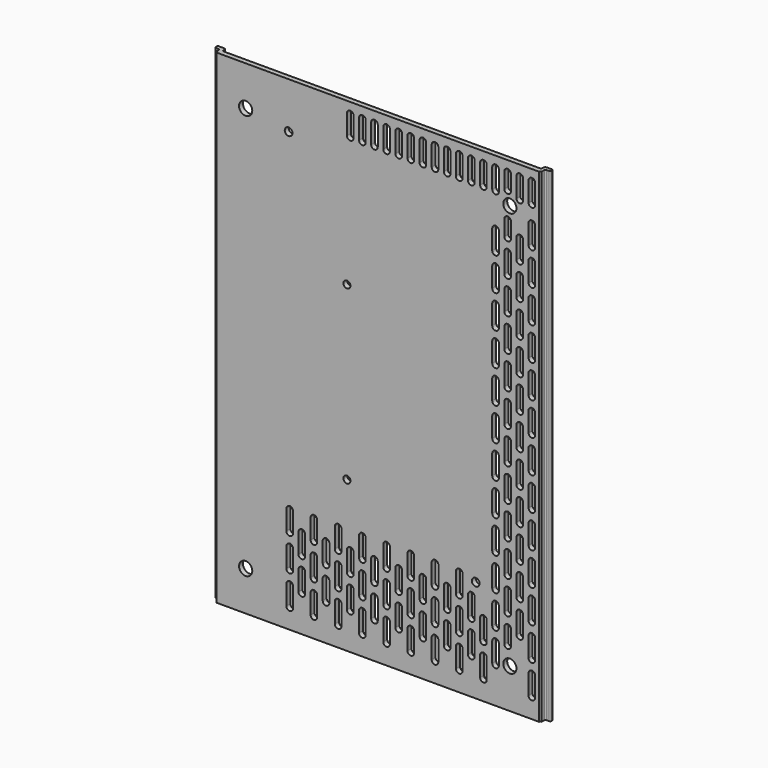
from build123d import *

# Parameters (mm, degrees)
PAD002_DEPTH    = 110
SKETCH005_R     = 1.75
SKETCH005_R_2   = 1.6
POCKET002_DEPTH = 2.251
SKETCH007_R     = 3
POCKET003_DEPTH = 5
POCKET004_DEPTH = 5
POCKET005_DEPTH = 5
POCKET006_DEPTH = 5


with BuildPart() as part:
    # Sketch002 → Pad002 (new body, symmetric)
    with BuildSketch(Plane.XY):
        with BuildLine():
            Line((-72.340626, 3.292676), (-72.340626, 2.75))
            ThreePointArc((-72.340626, 2.75), (-72.194179, 2.396447), (-71.840626, 2.25))
            Line((-71.840626, 2.25), (71.960626, 2.25))
            ThreePointArc((71.960626, 2.25), (72.314179, 2.396447), (72.460626, 2.75))
            Line((72.460626, 2.75), (72.460626, 3.292676))
            ThreePointArc((73.460626, 4.292676), (72.753519, 3.999783), (72.460626, 3.292676))
            Line((73.460626, 4.292676), (75.76208, 4.292676))
            ThreePointArc((76.26208, 3.792676), (76.115633, 4.14623), (75.76208, 4.292676))
            Line((76.26208, 3.792676), (76.26208, 3.150519))
            ThreePointArc((75.76208, 2.650519), (76.115633, 2.796966), (76.26208, 3.150519))
            Line((75.76208, 2.650519), (74.460626, 2.650519))
            ThreePointArc((74.460626, 2.650519), (74.107073, 2.504072), (73.960626, 2.150519))
            Line((73.960626, 2.150519), (73.960626, 0.635))
            ThreePointArc((73.960626, 0.635), (73.511613, 0.449013), (73.325626, 0))
            Line((73.325626, 0), (-73.205626, 0))
            ThreePointArc((-73.205626, 0), (-73.391613, 0.449013), (-73.840626, 0.635))
            Line((-73.840626, 0.635), (-73.840626, 2.150519))
            ThreePointArc((-73.840626, 2.150519), (-73.987073, 2.504072), (-74.340626, 2.650519))
            Line((-74.340626, 2.650519), (-75.64208, 2.650519))
            ThreePointArc((-76.14208, 3.150519), (-75.995633, 2.796966), (-75.64208, 2.650519))
            Line((-76.14208, 3.150519), (-76.14208, 3.792676))
            ThreePointArc((-75.64208, 4.292676), (-75.995633, 4.14623), (-76.14208, 3.792676))
            Line((-75.64208, 4.292676), (-73.340626, 4.292676))
            ThreePointArc((-72.340626, 3.292676), (-72.633519, 3.999783), (-73.340626, 4.292676))
        make_face()
    extrude(amount=PAD002_DEPTH, both=True)

    # Sketch005 (on Face3 of Pad002) → Pocket002 (cut, through all)
    with BuildSketch(Plane(origin=(0, 2.25, 0), x_dir=(-1, 0, 0), z_dir=(0, 1, 0))):
        with Locations((-44.5, -63.5)):
            Circle(SKETCH005_R)
        with Locations((40.5, 89)):
            Circle(SKETCH005_R)
        with Locations((14, 36.5)):
            Circle(SKETCH005_R_2)
        with Locations((14, -41.5)):
            Circle(SKETCH005_R_2)
    extrude(amount=-POCKET002_DEPTH, mode=Mode.SUBTRACT)

    # Sketch007 (on Face7 of Pocket002) → Pocket003 (cut)
    with BuildSketch(Plane(origin=(0, 2.25, 0), x_dir=(-1, 0, 0), z_dir=(0, 1, 0))):
        with Locations((-60, 92)):
            Circle(SKETCH007_R)
        with Locations((60, 92)):
            Circle(SKETCH007_R)
        with Locations((-60, -92)):
            Circle(SKETCH007_R)
        with Locations((60, -92)):
            Circle(SKETCH007_R)
    extrude(amount=-POCKET003_DEPTH, mode=Mode.SUBTRACT)

    # Sketch008 (on Face7 of Pocket003) → Pocket004 (cut)
    with BuildSketch(Plane(origin=(0, 2.25, 0), x_dir=(-1, 0, 0), z_dir=(0, 1, 0))):
        with BuildLine():
            ThreePointArc((-68.5, 105), (-70, 106.5), (-71.5, 105))
            Line((-71.5, 105), (-71.5, 96))
            ThreePointArc((-71.5, 96), (-70, 94.5), (-68.5, 96))
            Line((-68.5, 105), (-68.5, 96))
        make_face()
        with BuildLine():
            ThreePointArc((-63, 105), (-64.5, 106.5), (-66, 105))
            Line((-66, 105), (-66, 96))
            ThreePointArc((-66, 96), (-64.5, 94.5), (-63, 96))
            Line((-63, 105), (-63, 96))
        make_face()
        with BuildLine():
            ThreePointArc((-57.5, 105), (-59, 106.5), (-60.5, 105))
            Line((-60.5, 105), (-60.5, 98))
            ThreePointArc((-60.5, 98), (-59, 96.5), (-57.5, 98))
            Line((-57.5, 105), (-57.5, 98))
        make_face()
        with BuildLine():
            ThreePointArc((-52, 105), (-53.5, 106.5), (-55, 105))
            Line((-55, 105), (-55, 96))
            ThreePointArc((-55, 96), (-53.5, 94.5), (-52, 96))
            Line((-52, 105), (-52, 96))
        make_face()
        with BuildLine():
            ThreePointArc((-46.5, 105), (-48, 106.5), (-49.5, 105))
            Line((-49.5, 105), (-49.5, 96))
            ThreePointArc((-49.5, 96), (-48, 94.5), (-46.5, 96))
            Line((-46.5, 105), (-46.5, 96))
        make_face()
        with BuildLine():
            ThreePointArc((-41, 105), (-42.5, 106.5), (-44, 105))
            Line((-44, 105), (-44, 96))
            ThreePointArc((-44, 96), (-42.5, 94.5), (-41, 96))
            Line((-41, 105), (-41, 96))
        make_face()
        with BuildLine():
            ThreePointArc((-35.5, 105), (-37, 106.5), (-38.5, 105))
            Line((-38.5, 105), (-38.5, 96))
            ThreePointArc((-38.5, 96), (-37, 94.5), (-35.5, 96))
            Line((-35.5, 105), (-35.5, 96))
        make_face()
        with BuildLine():
            ThreePointArc((-30, 105), (-31.5, 106.5), (-33, 105))
            Line((-33, 105), (-33, 96))
            ThreePointArc((-33, 96), (-31.5, 94.5), (-30, 96))
            Line((-30, 105), (-30, 96))
        make_face()
        with BuildLine():
            ThreePointArc((-24.5, 105), (-26, 106.5), (-27.5, 105))
            Line((-27.5, 105), (-27.5, 96))
            ThreePointArc((-27.5, 96), (-26, 94.5), (-24.5, 96))
            Line((-24.5, 105), (-24.5, 96))
        make_face()
        with BuildLine():
            ThreePointArc((-19, 105), (-20.5, 106.5), (-22, 105))
            Line((-22, 105), (-22, 96))
            ThreePointArc((-22, 96), (-20.5, 94.5), (-19, 96))
            Line((-19, 105), (-19, 96))
        make_face()
        with BuildLine():
            ThreePointArc((-13.5, 105), (-15, 106.5), (-16.5, 105))
            Line((-16.5, 105), (-16.5, 96))
            ThreePointArc((-16.5, 96), (-15, 94.5), (-13.5, 96))
            Line((-13.5, 105), (-13.5, 96))
        make_face()
        with BuildLine():
            ThreePointArc((-8, 105), (-9.5, 106.5), (-11, 105))
            Line((-11, 105), (-11, 96))
            ThreePointArc((-11, 96), (-9.5, 94.5), (-8, 96))
            Line((-8, 105), (-8, 96))
        make_face()
        with BuildLine():
            ThreePointArc((-2.5, 105), (-4, 106.5), (-5.5, 105))
            Line((-5.5, 105), (-5.5, 96))
            ThreePointArc((-5.5, 96), (-4, 94.5), (-2.5, 96))
            Line((-2.5, 105), (-2.5, 96))
        make_face()
        with BuildLine():
            ThreePointArc((3, 105), (1.5, 106.5), (0, 105))
            Line((0, 105), (0, 96))
            ThreePointArc((0, 96), (1.5, 94.5), (3, 96))
            Line((3, 105), (3, 96))
        make_face()
        with BuildLine():
            ThreePointArc((8.5, 105), (7, 106.5), (5.5, 105))
            Line((5.5, 105), (5.5, 96))
            ThreePointArc((5.5, 96), (7, 94.5), (8.5, 96))
            Line((8.5, 105), (8.5, 96))
        make_face()
        with BuildLine():
            ThreePointArc((14, 105), (12.5, 106.5), (11, 105))
            Line((11, 105), (11, 96))
            ThreePointArc((11, 96), (12.5, 94.5), (14, 96))
            Line((14, 105), (14, 96))
        make_face()
    extrude(amount=-POCKET004_DEPTH, mode=Mode.SUBTRACT)

    # Sketch009 (on Face7 of Pocket004) → Pocket005 (cut)
    with BuildSketch(Plane(origin=(0, 2.25, 0), x_dir=(-1, 0, 0), z_dir=(0, 1, 0))):
        with BuildLine():
            ThreePointArc((-68.5, 73), (-70, 74.5), (-71.5, 73))
            Line((-71.5, 73), (-71.5, 64))
            ThreePointArc((-71.5, 64), (-70, 62.5), (-68.5, 64))
            Line((-68.5, 73), (-68.5, 64))
        make_face()
        with BuildLine():
            ThreePointArc((-63, 80.5), (-64.5, 82), (-66, 80.5))
            Line((-66, 80.5), (-66, 71.5))
            ThreePointArc((-66, 71.5), (-64.5, 70), (-63, 71.5))
            Line((-63, 80.5), (-63, 71.5))
        make_face()
        with BuildLine():
            ThreePointArc((-57.5, 73), (-59, 74.5), (-60.5, 73))
            Line((-60.5, 73), (-60.5, 64))
            ThreePointArc((-60.5, 64), (-59, 62.5), (-57.5, 64))
            Line((-57.5, 73), (-57.5, 64))
        make_face()
        with BuildLine():
            ThreePointArc((-52, 80.5), (-53.5, 82), (-55, 80.5))
            Line((-55, 80.5), (-55, 71.5))
            ThreePointArc((-55, 71.5), (-53.5, 70), (-52, 71.5))
            Line((-52, 80.5), (-52, 71.5))
        make_face()
        with BuildLine():
            ThreePointArc((-68.5, 58), (-70, 59.5), (-71.5, 58))
            Line((-71.5, 58), (-71.5, 49))
            ThreePointArc((-71.5, 49), (-70, 47.5), (-68.5, 49))
            Line((-68.5, 58), (-68.5, 49))
        make_face()
        with BuildLine():
            ThreePointArc((-63, 65.5), (-64.5, 67), (-66, 65.5))
            Line((-66, 65.5), (-66, 56.5))
            ThreePointArc((-66, 56.5), (-64.5, 55), (-63, 56.5))
            Line((-63, 65.5), (-63, 56.5))
        make_face()
        with BuildLine():
            ThreePointArc((-57.5, 58), (-59, 59.5), (-60.5, 58))
            Line((-60.5, 58), (-60.5, 49))
            ThreePointArc((-60.5, 49), (-59, 47.5), (-57.5, 49))
            Line((-57.5, 58), (-57.5, 49))
        make_face()
        with BuildLine():
            ThreePointArc((-52, 65.5), (-53.5, 67), (-55, 65.5))
            Line((-55, 65.5), (-55, 56.5))
            ThreePointArc((-55, 56.5), (-53.5, 55), (-52, 56.5))
            Line((-52, 65.5), (-52, 56.5))
        make_face()
        with BuildLine():
            ThreePointArc((-68.5, 43), (-70, 44.5), (-71.5, 43))
            Line((-71.5, 43), (-71.5, 34))
            ThreePointArc((-71.5, 34), (-70, 32.5), (-68.5, 34))
            Line((-68.5, 43), (-68.5, 34))
        make_face()
        with BuildLine():
            ThreePointArc((-63, 50.5), (-64.5, 52), (-66, 50.5))
            Line((-66, 50.5), (-66, 41.5))
            ThreePointArc((-66, 41.5), (-64.5, 40), (-63, 41.5))
            Line((-63, 50.5), (-63, 41.5))
        make_face()
        with BuildLine():
            ThreePointArc((-57.5, 43), (-59, 44.5), (-60.5, 43))
            Line((-60.5, 43), (-60.5, 34))
            ThreePointArc((-60.5, 34), (-59, 32.5), (-57.5, 34))
            Line((-57.5, 43), (-57.5, 34))
        make_face()
        with BuildLine():
            ThreePointArc((-52, 50.5), (-53.5, 52), (-55, 50.5))
            Line((-55, 50.5), (-55, 41.5))
            ThreePointArc((-55, 41.5), (-53.5, 40), (-52, 41.5))
            Line((-52, 50.5), (-52, 41.5))
        make_face()
        with BuildLine():
            ThreePointArc((-68.5, 28), (-70, 29.5), (-71.5, 28))
            Line((-71.5, 28), (-71.5, 19))
            ThreePointArc((-71.5, 19), (-70, 17.5), (-68.5, 19))
            Line((-68.5, 28), (-68.5, 19))
        make_face()
        with BuildLine():
            ThreePointArc((-63, 35.5), (-64.5, 37), (-66, 35.5))
            Line((-66, 35.5), (-66, 26.5))
            ThreePointArc((-66, 26.5), (-64.5, 25), (-63, 26.5))
            Line((-63, 35.5), (-63, 26.5))
        make_face()
        with BuildLine():
            ThreePointArc((-57.5, 28), (-59, 29.5), (-60.5, 28))
            Line((-60.5, 28), (-60.5, 19))
            ThreePointArc((-60.5, 19), (-59, 17.5), (-57.5, 19))
            Line((-57.5, 28), (-57.5, 19))
        make_face()
        with BuildLine():
            ThreePointArc((-52, 35.5), (-53.5, 37), (-55, 35.5))
            Line((-55, 35.5), (-55, 26.5))
            ThreePointArc((-55, 26.5), (-53.5, 25), (-52, 26.5))
            Line((-52, 35.5), (-52, 26.5))
        make_face()
        with BuildLine():
            ThreePointArc((-68.5, 13), (-70, 14.5), (-71.5, 13))
            Line((-71.5, 13), (-71.5, 4))
            ThreePointArc((-71.5, 4), (-70, 2.5), (-68.5, 4))
            Line((-68.5, 13), (-68.5, 4))
        make_face()
        with BuildLine():
            ThreePointArc((-63, 20.5), (-64.5, 22), (-66, 20.5))
            Line((-66, 20.5), (-66, 11.5))
            ThreePointArc((-66, 11.5), (-64.5, 10), (-63, 11.5))
            Line((-63, 20.5), (-63, 11.5))
        make_face()
        with BuildLine():
            ThreePointArc((-57.5, 13), (-59, 14.5), (-60.5, 13))
            Line((-60.5, 13), (-60.5, 4))
            ThreePointArc((-60.5, 4), (-59, 2.5), (-57.5, 4))
            Line((-57.5, 13), (-57.5, 4))
        make_face()
        with BuildLine():
            ThreePointArc((-52, 20.5), (-53.5, 22), (-55, 20.5))
            Line((-55, 20.5), (-55, 11.5))
            ThreePointArc((-55, 11.5), (-53.5, 10), (-52, 11.5))
            Line((-52, 20.5), (-52, 11.5))
        make_face()
        with BuildLine():
            ThreePointArc((-68.5, -2), (-70, -0.5), (-71.5, -2))
            Line((-71.5, -2), (-71.5, -11))
            ThreePointArc((-71.5, -11), (-70, -12.5), (-68.5, -11))
            Line((-68.5, -2), (-68.5, -11))
        make_face()
        with BuildLine():
            ThreePointArc((-63, 5.5), (-64.5, 7), (-66, 5.5))
            Line((-66, 5.5), (-66, -3.5))
            ThreePointArc((-66, -3.5), (-64.5, -5), (-63, -3.5))
            Line((-63, 5.5), (-63, -3.5))
        make_face()
        with BuildLine():
            ThreePointArc((-57.5, -2), (-59, -0.5), (-60.5, -2))
            Line((-60.5, -2), (-60.5, -11))
            ThreePointArc((-60.5, -11), (-59, -12.5), (-57.5, -11))
            Line((-57.5, -2), (-57.5, -11))
        make_face()
        with BuildLine():
            ThreePointArc((-52, 5.5), (-53.5, 7), (-55, 5.5))
            Line((-55, 5.5), (-55, -3.5))
            ThreePointArc((-55, -3.5), (-53.5, -5), (-52, -3.5))
            Line((-52, 5.5), (-52, -3.5))
        make_face()
        with BuildLine():
            ThreePointArc((-68.5, -17), (-70, -15.5), (-71.5, -17))
            Line((-71.5, -17), (-71.5, -26))
            ThreePointArc((-71.5, -26), (-70, -27.5), (-68.5, -26))
            Line((-68.5, -17), (-68.5, -26))
        make_face()
        with BuildLine():
            ThreePointArc((-63, -9.5), (-64.5, -8), (-66, -9.5))
            Line((-66, -9.5), (-66, -18.5))
            ThreePointArc((-66, -18.5), (-64.5, -20), (-63, -18.5))
            Line((-63, -9.5), (-63, -18.5))
        make_face()
        with BuildLine():
            ThreePointArc((-57.5, -17), (-59, -15.5), (-60.5, -17))
            Line((-60.5, -17), (-60.5, -26))
            ThreePointArc((-60.5, -26), (-59, -27.5), (-57.5, -26))
            Line((-57.5, -17), (-57.5, -26))
        make_face()
        with BuildLine():
            ThreePointArc((-52, -9.5), (-53.5, -8), (-55, -9.5))
            Line((-55, -9.5), (-55, -18.5))
            ThreePointArc((-55, -18.5), (-53.5, -20), (-52, -18.5))
            Line((-52, -9.5), (-52, -18.5))
        make_face()
        with BuildLine():
            ThreePointArc((-68.5, -32), (-70, -30.5), (-71.5, -32))
            Line((-71.5, -32), (-71.5, -41))
            ThreePointArc((-71.5, -41), (-70, -42.5), (-68.5, -41))
            Line((-68.5, -32), (-68.5, -41))
        make_face()
        with BuildLine():
            ThreePointArc((-63, -24.5), (-64.5, -23), (-66, -24.5))
            Line((-66, -24.5), (-66, -33.5))
            ThreePointArc((-66, -33.5), (-64.5, -35), (-63, -33.5))
            Line((-63, -24.5), (-63, -33.5))
        make_face()
        with BuildLine():
            ThreePointArc((-57.5, -32), (-59, -30.5), (-60.5, -32))
            Line((-60.5, -32), (-60.5, -41))
            ThreePointArc((-60.5, -41), (-59, -42.5), (-57.5, -41))
            Line((-57.5, -32), (-57.5, -41))
        make_face()
        with BuildLine():
            ThreePointArc((-52, -24.5), (-53.5, -23), (-55, -24.5))
            Line((-55, -24.5), (-55, -33.5))
            ThreePointArc((-55, -33.5), (-53.5, -35), (-52, -33.5))
            Line((-52, -24.5), (-52, -33.5))
        make_face()
        with BuildLine():
            ThreePointArc((-68.5, -47), (-70, -45.5), (-71.5, -47))
            Line((-71.5, -47), (-71.5, -56))
            ThreePointArc((-71.5, -56), (-70, -57.5), (-68.5, -56))
            Line((-68.5, -47), (-68.5, -56))
        make_face()
        with BuildLine():
            ThreePointArc((-63, -39.5), (-64.5, -38), (-66, -39.5))
            Line((-66, -39.5), (-66, -48.5))
            ThreePointArc((-66, -48.5), (-64.5, -50), (-63, -48.5))
            Line((-63, -39.5), (-63, -48.5))
        make_face()
        with BuildLine():
            ThreePointArc((-57.5, -47), (-59, -45.5), (-60.5, -47))
            Line((-60.5, -47), (-60.5, -56))
            ThreePointArc((-60.5, -56), (-59, -57.5), (-57.5, -56))
            Line((-57.5, -47), (-57.5, -56))
        make_face()
        with BuildLine():
            ThreePointArc((-52, -39.5), (-53.5, -38), (-55, -39.5))
            Line((-55, -39.5), (-55, -48.5))
            ThreePointArc((-55, -48.5), (-53.5, -50), (-52, -48.5))
            Line((-52, -39.5), (-52, -48.5))
        make_face()
        with BuildLine():
            ThreePointArc((-68.5, -62), (-70, -60.5), (-71.5, -62))
            Line((-71.5, -62), (-71.5, -71))
            ThreePointArc((-71.5, -71), (-70, -72.5), (-68.5, -71))
            Line((-68.5, -62), (-68.5, -71))
        make_face()
        with BuildLine():
            ThreePointArc((-63, -54.5), (-64.5, -53), (-66, -54.5))
            Line((-66, -54.5), (-66, -63.5))
            ThreePointArc((-66, -63.5), (-64.5, -65), (-63, -63.5))
            Line((-63, -54.5), (-63, -63.5))
        make_face()
        with BuildLine():
            ThreePointArc((-57.5, -62), (-59, -60.5), (-60.5, -62))
            Line((-60.5, -62), (-60.5, -71))
            ThreePointArc((-60.5, -71), (-59, -72.5), (-57.5, -71))
            Line((-57.5, -62), (-57.5, -71))
        make_face()
        with BuildLine():
            ThreePointArc((-52, -54.5), (-53.5, -53), (-55, -54.5))
            Line((-55, -54.5), (-55, -63.5))
            ThreePointArc((-55, -63.5), (-53.5, -65), (-52, -63.5))
            Line((-52, -54.5), (-52, -63.5))
        make_face()
        with BuildLine():
            ThreePointArc((-68.5, -77), (-70, -75.5), (-71.5, -77))
            Line((-71.5, -77), (-71.5, -86))
            ThreePointArc((-71.5, -86), (-70, -87.5), (-68.5, -86))
            Line((-68.5, -77), (-68.5, -86))
        make_face()
        with BuildLine():
            ThreePointArc((-66, -78.5), (-64.5, -80), (-63, -78.5))
            Line((-63, -69.5), (-63, -78.5))
            ThreePointArc((-63, -69.5), (-64.5, -68), (-66, -69.5))
            Line((-66, -69.5), (-66, -78.5))
        make_face()
        with BuildLine():
            ThreePointArc((-55, -78.5), (-53.5, -80), (-52, -78.5))
            Line((-52, -69.5), (-52, -78.5))
            ThreePointArc((-52, -69.5), (-53.5, -68), (-55, -69.5))
            Line((-55, -69.5), (-55, -78.5))
        make_face()
        with BuildLine():
            ThreePointArc((-68.5, -92), (-70, -90.5), (-71.5, -92))
            Line((-71.5, -92), (-71.5, -101))
            ThreePointArc((-71.5, -101), (-70, -102.5), (-68.5, -101))
            Line((-68.5, -92), (-68.5, -101))
        make_face()
        with BuildLine():
            ThreePointArc((-55, -93.5), (-53.5, -95), (-52, -93.5))
            Line((-52, -84.5), (-52, -93.5))
            ThreePointArc((-52, -84.5), (-53.5, -83), (-55, -84.5))
            Line((-55, -84.5), (-55, -93.5))
        make_face()
        with BuildLine():
            Line((-71.5, 88), (-71.5, 79))
            ThreePointArc((-71.5, 79), (-70, 77.5), (-68.5, 79))
            Line((-68.5, 88), (-68.5, 79))
            ThreePointArc((-68.5, 88), (-70, 89.5), (-71.5, 88))
        make_face()
        with BuildLine():
            ThreePointArc((-57.5, 86), (-59, 87.5), (-60.5, 86))
            Line((-60.5, 86), (-60.5, 79))
            ThreePointArc((-60.5, 79), (-59, 77.5), (-57.5, 79))
            Line((-57.5, 86), (-57.5, 79))
        make_face()
        with BuildLine():
            ThreePointArc((-57.5, -77), (-59, -75.5), (-60.5, -77))
            Line((-60.5, -77), (-60.5, -84))
            ThreePointArc((-60.5, -84), (-59, -85.5), (-57.5, -84))
            Line((-57.5, -77), (-57.5, -84))
        make_face()
    extrude(amount=-POCKET005_DEPTH, mode=Mode.SUBTRACT)

    # Sketch010 (on Face7 of Pocket005) → Pocket006 (cut)
    with BuildSketch(Plane(origin=(0, 2.25, 0), x_dir=(-1, 0, 0), z_dir=(0, 1, 0))):
        with BuildLine():
            ThreePointArc((-49.5, -101), (-48, -102.5), (-46.5, -101))
            Line((-46.5, -101), (-46.5, -92))
            ThreePointArc((-46.5, -92), (-48, -90.5), (-49.5, -92))
            Line((-49.5, -101), (-49.5, -92))
        make_face()
        with BuildLine():
            ThreePointArc((-38.5, -101), (-37, -102.5), (-35.5, -101))
            Line((-35.5, -101), (-35.5, -92))
            ThreePointArc((-35.5, -92), (-37, -90.5), (-38.5, -92))
            Line((-38.5, -101), (-38.5, -92))
        make_face()
        with BuildLine():
            ThreePointArc((-27.5, -101), (-26, -102.5), (-24.5, -101))
            Line((-24.5, -101), (-24.5, -92))
            ThreePointArc((-24.5, -92), (-26, -90.5), (-27.5, -92))
            Line((-27.5, -101), (-27.5, -92))
        make_face()
        with BuildLine():
            ThreePointArc((-16.5, -101), (-15, -102.5), (-13.5, -101))
            Line((-13.5, -101), (-13.5, -92))
            ThreePointArc((-13.5, -92), (-15, -90.5), (-16.5, -92))
            Line((-16.5, -101), (-16.5, -92))
        make_face()
        with BuildLine():
            ThreePointArc((-5.5, -101), (-4, -102.5), (-2.5, -101))
            Line((-2.5, -101), (-2.5, -92))
            ThreePointArc((-2.5, -92), (-4, -90.5), (-5.5, -92))
            Line((-5.5, -101), (-5.5, -92))
        make_face()
        with BuildLine():
            ThreePointArc((5.5, -101), (7, -102.5), (8.5, -101))
            Line((8.5, -101), (8.5, -92))
            ThreePointArc((8.5, -92), (7, -90.5), (5.5, -92))
            Line((5.5, -101), (5.5, -92))
        make_face()
        with BuildLine():
            ThreePointArc((16.5, -101), (18, -102.5), (19.5, -101))
            Line((19.5, -101), (19.5, -92))
            ThreePointArc((19.5, -92), (18, -90.5), (16.5, -92))
            Line((16.5, -101), (16.5, -92))
        make_face()
        with BuildLine():
            ThreePointArc((27.5, -101), (29, -102.5), (30.5, -101))
            Line((30.5, -101), (30.5, -92))
            ThreePointArc((30.5, -92), (29, -90.5), (27.5, -92))
            Line((27.5, -101), (27.5, -92))
        make_face()
        with BuildLine():
            ThreePointArc((38.5, -101), (40, -102.5), (41.5, -101))
            Line((41.5, -101), (41.5, -92))
            ThreePointArc((41.5, -92), (40, -90.5), (38.5, -92))
            Line((38.5, -101), (38.5, -92))
        make_face()
        with BuildLine():
            ThreePointArc((-38.5, -71), (-37, -72.5), (-35.5, -71))
            Line((-35.5, -71), (-35.5, -62))
            ThreePointArc((-35.5, -62), (-37, -60.5), (-38.5, -62))
            Line((-38.5, -71), (-38.5, -62))
        make_face()
        with BuildLine():
            ThreePointArc((-27.5, -71), (-26, -72.5), (-24.5, -71))
            Line((-24.5, -71), (-24.5, -62))
            ThreePointArc((-24.5, -62), (-26, -60.5), (-27.5, -62))
            Line((-27.5, -71), (-27.5, -62))
        make_face()
        with BuildLine():
            ThreePointArc((-16.5, -71), (-15, -72.5), (-13.5, -71))
            Line((-13.5, -71), (-13.5, -62))
            ThreePointArc((-13.5, -62), (-15, -60.5), (-16.5, -62))
            Line((-16.5, -71), (-16.5, -62))
        make_face()
        with BuildLine():
            ThreePointArc((-5.5, -71), (-4, -72.5), (-2.5, -71))
            Line((-2.5, -71), (-2.5, -62))
            ThreePointArc((-2.5, -62), (-4, -60.5), (-5.5, -62))
            Line((-5.5, -71), (-5.5, -62))
        make_face()
        with BuildLine():
            ThreePointArc((5.5, -71), (7, -72.5), (8.5, -71))
            Line((8.5, -71), (8.5, -62))
            ThreePointArc((8.5, -62), (7, -60.5), (5.5, -62))
            Line((5.5, -71), (5.5, -62))
        make_face()
        with BuildLine():
            ThreePointArc((16.5, -71), (18, -72.5), (19.5, -71))
            Line((19.5, -71), (19.5, -62))
            ThreePointArc((19.5, -62), (18, -60.5), (16.5, -62))
            Line((16.5, -71), (16.5, -62))
        make_face()
        with BuildLine():
            ThreePointArc((27.5, -71), (29, -72.5), (30.5, -71))
            Line((30.5, -71), (30.5, -62))
            ThreePointArc((30.5, -62), (29, -60.5), (27.5, -62))
            Line((27.5, -71), (27.5, -62))
        make_face()
        with BuildLine():
            ThreePointArc((38.5, -71), (40, -72.5), (41.5, -71))
            Line((41.5, -71), (41.5, -62))
            ThreePointArc((41.5, -62), (40, -60.5), (38.5, -62))
            Line((38.5, -71), (38.5, -62))
        make_face()
        with BuildLine():
            ThreePointArc((-49.5, -86), (-48, -87.5), (-46.5, -86))
            Line((-46.5, -86), (-46.5, -77))
            ThreePointArc((-46.5, -77), (-48, -75.5), (-49.5, -77))
            Line((-49.5, -86), (-49.5, -77))
        make_face()
        with BuildLine():
            ThreePointArc((-38.5, -86), (-37, -87.5), (-35.5, -86))
            Line((-35.5, -86), (-35.5, -77))
            ThreePointArc((-35.5, -77), (-37, -75.5), (-38.5, -77))
            Line((-38.5, -86), (-38.5, -77))
        make_face()
        with BuildLine():
            ThreePointArc((-27.5, -86), (-26, -87.5), (-24.5, -86))
            Line((-24.5, -86), (-24.5, -77))
            ThreePointArc((-24.5, -77), (-26, -75.5), (-27.5, -77))
            Line((-27.5, -86), (-27.5, -77))
        make_face()
        with BuildLine():
            ThreePointArc((-16.5, -86), (-15, -87.5), (-13.5, -86))
            Line((-13.5, -86), (-13.5, -77))
            ThreePointArc((-13.5, -77), (-15, -75.5), (-16.5, -77))
            Line((-16.5, -86), (-16.5, -77))
        make_face()
        with BuildLine():
            ThreePointArc((-5.5, -86), (-4, -87.5), (-2.5, -86))
            Line((-2.5, -86), (-2.5, -77))
            ThreePointArc((-2.5, -77), (-4, -75.5), (-5.5, -77))
            Line((-5.5, -86), (-5.5, -77))
        make_face()
        with BuildLine():
            ThreePointArc((5.5, -86), (7, -87.5), (8.5, -86))
            Line((8.5, -86), (8.5, -77))
            ThreePointArc((8.5, -77), (7, -75.5), (5.5, -77))
            Line((5.5, -86), (5.5, -77))
        make_face()
        with BuildLine():
            ThreePointArc((16.5, -86), (18, -87.5), (19.5, -86))
            Line((19.5, -86), (19.5, -77))
            ThreePointArc((19.5, -77), (18, -75.5), (16.5, -77))
            Line((16.5, -86), (16.5, -77))
        make_face()
        with BuildLine():
            ThreePointArc((27.5, -86), (29, -87.5), (30.5, -86))
            Line((30.5, -86), (30.5, -77))
            ThreePointArc((30.5, -77), (29, -75.5), (27.5, -77))
            Line((27.5, -86), (27.5, -77))
        make_face()
        with BuildLine():
            ThreePointArc((38.5, -86), (40, -87.5), (41.5, -86))
            Line((41.5, -86), (41.5, -77))
            ThreePointArc((41.5, -77), (40, -75.5), (38.5, -77))
            Line((38.5, -86), (38.5, -77))
        make_face()
        with BuildLine():
            ThreePointArc((-44, -93.5), (-42.5, -95), (-41, -93.5))
            Line((-41, -93.5), (-41, -84.5))
            ThreePointArc((-41, -84.5), (-42.5, -83), (-44, -84.5))
            Line((-44, -93.5), (-44, -84.5))
        make_face()
        with BuildLine():
            ThreePointArc((-33, -93.5), (-31.5, -95), (-30, -93.5))
            Line((-30, -93.5), (-30, -84.5))
            ThreePointArc((-30, -84.5), (-31.5, -83), (-33, -84.5))
            Line((-33, -93.5), (-33, -84.5))
        make_face()
        with BuildLine():
            ThreePointArc((-22, -93.5), (-20.5, -95), (-19, -93.5))
            Line((-19, -93.5), (-19, -84.5))
            ThreePointArc((-19, -84.5), (-20.5, -83), (-22, -84.5))
            Line((-22, -93.5), (-22, -84.5))
        make_face()
        with BuildLine():
            ThreePointArc((-11, -93.5), (-9.5, -95), (-8, -93.5))
            Line((-8, -93.5), (-8, -84.5))
            ThreePointArc((-8, -84.5), (-9.5, -83), (-11, -84.5))
            Line((-11, -93.5), (-11, -84.5))
        make_face()
        with BuildLine():
            ThreePointArc((0, -93.5), (1.5, -95), (3, -93.5))
            Line((3, -93.5), (3, -84.5))
            ThreePointArc((3, -84.5), (1.5, -83), (0, -84.5))
            Line((0, -93.5), (0, -84.5))
        make_face()
        with BuildLine():
            ThreePointArc((11, -93.5), (12.5, -95), (14, -93.5))
            Line((14, -93.5), (14, -84.5))
            ThreePointArc((14, -84.5), (12.5, -83), (11, -84.5))
            Line((11, -93.5), (11, -84.5))
        make_face()
        with BuildLine():
            ThreePointArc((22, -93.5), (23.5, -95), (25, -93.5))
            Line((25, -93.5), (25, -84.5))
            ThreePointArc((25, -84.5), (23.5, -83), (22, -84.5))
            Line((22, -93.5), (22, -84.5))
        make_face()
        with BuildLine():
            ThreePointArc((33, -93.5), (34.5, -95), (36, -93.5))
            Line((36, -93.5), (36, -84.5))
            ThreePointArc((36, -84.5), (34.5, -83), (33, -84.5))
            Line((33, -93.5), (33, -84.5))
        make_face()
        with BuildLine():
            ThreePointArc((-44, -78.5), (-42.5, -80), (-41, -78.5))
            Line((-41, -78.5), (-41, -69.5))
            ThreePointArc((-41, -69.5), (-42.5, -68), (-44, -69.5))
            Line((-44, -78.5), (-44, -69.5))
        make_face()
        with BuildLine():
            ThreePointArc((-33, -78.5), (-31.5, -80), (-30, -78.5))
            Line((-30, -78.5), (-30, -69.5))
            ThreePointArc((-30, -69.5), (-31.5, -68), (-33, -69.5))
            Line((-33, -78.5), (-33, -69.5))
        make_face()
        with BuildLine():
            ThreePointArc((-22, -78.5), (-20.5, -80), (-19, -78.5))
            Line((-19, -78.5), (-19, -69.5))
            ThreePointArc((-19, -69.5), (-20.5, -68), (-22, -69.5))
            Line((-22, -78.5), (-22, -69.5))
        make_face()
        with BuildLine():
            ThreePointArc((-11, -78.5), (-9.5, -80), (-8, -78.5))
            Line((-8, -78.5), (-8, -69.5))
            ThreePointArc((-8, -69.5), (-9.5, -68), (-11, -69.5))
            Line((-11, -78.5), (-11, -69.5))
        make_face()
        with BuildLine():
            ThreePointArc((0, -78.5), (1.5, -80), (3, -78.5))
            Line((3, -78.5), (3, -69.5))
            ThreePointArc((3, -69.5), (1.5, -68), (0, -69.5))
            Line((0, -78.5), (0, -69.5))
        make_face()
        with BuildLine():
            ThreePointArc((11, -78.5), (12.5, -80), (14, -78.5))
            Line((14, -78.5), (14, -69.5))
            ThreePointArc((14, -69.5), (12.5, -68), (11, -69.5))
            Line((11, -78.5), (11, -69.5))
        make_face()
        with BuildLine():
            ThreePointArc((22, -78.5), (23.5, -80), (25, -78.5))
            Line((25, -78.5), (25, -69.5))
            ThreePointArc((25, -69.5), (23.5, -68), (22, -69.5))
            Line((22, -78.5), (22, -69.5))
        make_face()
        with BuildLine():
            ThreePointArc((33, -78.5), (34.5, -80), (36, -78.5))
            Line((36, -78.5), (36, -69.5))
            ThreePointArc((36, -69.5), (34.5, -68), (33, -69.5))
            Line((33, -78.5), (33, -69.5))
        make_face()
    extrude(amount=-POCKET006_DEPTH, mode=Mode.SUBTRACT)


solid = part.part
